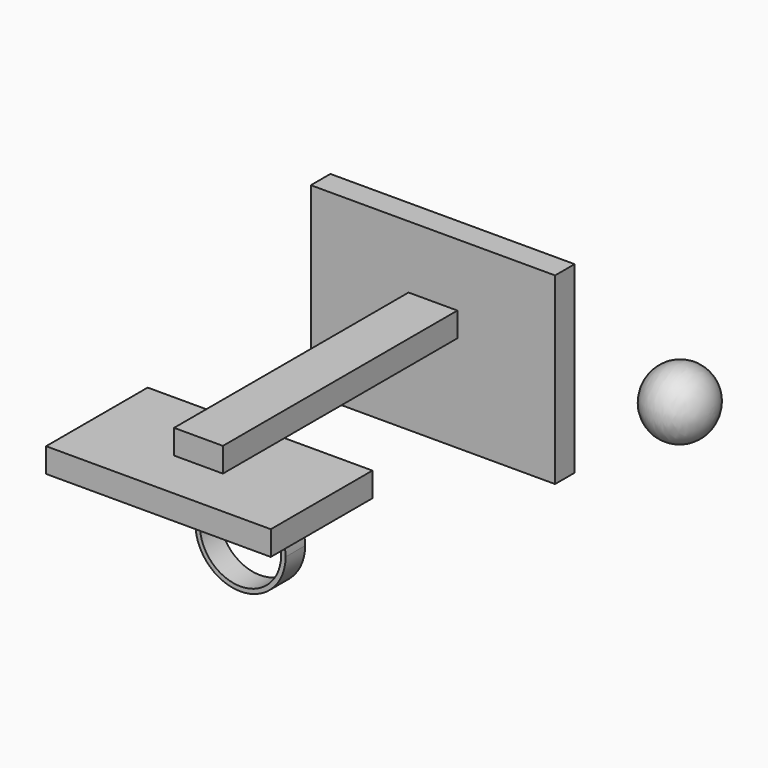
from build123d import *

# Parameters (mm, degrees)
F1_DEPTH  = 6.35
F3_DEPTH  = 76.2
F5_DEPTH  = 6.35
F7_DEPTH  = 10.16
F8_W      = 12.7
F8_H      = 6.324728
F9_DEPTH  = 25.4
F10_R     = 10.574341
F11_DEPTH = 25.4
F12_W     = 63.5
F12_H     = 9.101013
F12_H_2   = 6.63917
F13_DEPTH = 25.4


with BuildPart() as f1:
    # F0 (on Front) → F1 (new body)
    with BuildSketch(Plane.XZ):
        Polygon((31.75, 31.749998), (0, 31.749998), (-31.75, 31.749998), (-31.75, 0), (-31.75, -31.75), (0, -31.75), (31.75, -31.75), (31.75, 0), align=None)
    extrude(amount=F1_DEPTH)

    # F2 (on face) → F3 (join)
    with BuildSketch(Plane.XZ.offset(6.35)):
        Polygon((-6.35, 6.35), (-6.35, 0), (0, 0), (6.35, 0), (6.35, 6.35), align=None)
    extrude(amount=F3_DEPTH)

    # F4 (on Top) → F5 (join)
    with BuildSketch(Plane.XY):
        Polygon((-29.214848, -95.566927), (0, -95.566927), (29.21, -95.566927), (29.21, -62.546927), (-29.214848, -62.546927), align=None)
    extrude(amount=-F5_DEPTH)

    # F6 (on Top) → F7 (join)
    with BuildSketch(Plane.XY):
        Polygon((6.35, -68.885818), (6.35, -62.535818), (0, -62.535818), (-6.35, -62.535818), (-6.35, -68.885818), align=None)
    extrude(amount=-F7_DEPTH)

    # F8 (on face) → F9 (join)
    with BuildSketch(Plane(origin=(0, 0, -10.16), x_dir=(1, 0, 0), z_dir=(0, 0, -1))):
        with Locations((0, 65.723454)):
            Rectangle(F8_W, F8_H)
        Polygon((12.7, 68.91109), (-12.7, 68.91109), (-12.7, 62.56109), (-6.35, 62.56109), (-6.35, 68.885818), (6.35, 68.885818), (6.35, 62.56109), (12.7, 62.56109), align=None)
    extrude(amount=F9_DEPTH)

    # F10 (on face) → F11 (cut)
    with BuildSketch(Plane.XZ.offset(68.91109)):
        with BuildLine():
            ThreePointArc((6.429271, -13.050577), (10.319077, -17.28533), (11.72861, -22.86))
            ThreePointArc((11.72861, -22.86), (-5.60454, -33.162885), (-6.372329, -13.013492))
            Line((-6.372329, -13.013492), (-6.372329, -10.16))
            Line((-6.372329, -10.16), (-12.7, -10.16))
            Line((-12.7, -10.16), (-12.7, -35.56))
            Line((-12.7, -35.56), (12.7, -35.56))
            Line((12.7, -35.56), (12.7, -10.16))
            Line((12.7, -10.16), (6.429271, -10.16))
            Line((6.429271, -10.16), (6.429271, -13.050577))
        make_face()
        with Locations((0, -22.86)):
            Circle(F10_R)
    extrude(amount=-F11_DEPTH, mode=Mode.SUBTRACT)

    # F12 (on face) → F13 (cut)
    with BuildSketch(Plane.XZ.offset(6.35)):
        with Locations((0, 27.199492)):
            Rectangle(F12_W, F12_H)
        with Locations((0, -28.430415)):
            Rectangle(F12_W, F12_H_2)
    extrude(amount=-F13_DEPTH, mode=Mode.SUBTRACT)


with BuildPart() as f15:
    # F14 (on Top) → F15 (revolve)
    with BuildSketch(Plane.XY):
        with BuildLine():
            Line((67.425132, 0), (50.776947, 0))
            ThreePointArc((50.776947, 0), (59.10104, -8.683258), (67.425132, 0))
        make_face()
    revolve(axis=Axis((59.10104, 0, 0), (1, 0, 0)))


solid = Compound([f1.part, f15.part])
